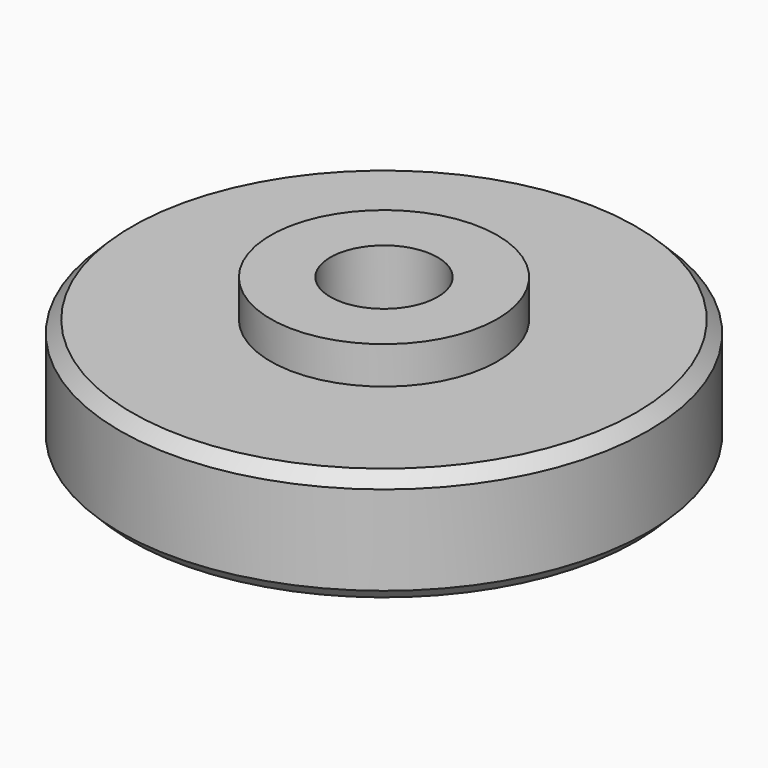
from build123d import *

# Parameters (mm, degrees)
F0_R     = 5.5626
F1_DEPTH = 2.3876
F2_R     = 2.3876
F3_DEPTH = 0.7874
F4_R     = 1.1303
F5_DEPTH = 3.176
F6_SIZE  = 0.254


with BuildPart() as f1:
    # F0 (on Top) → F1 (new body)
    with BuildSketch(Plane.XY):
        Circle(F0_R)
    extrude(amount=F1_DEPTH)

    # F2 (on face) → F3 (join)
    with BuildSketch(Plane.XY.offset(2.3876)):
        Circle(F2_R)
    extrude(amount=F3_DEPTH)

    # F4 (on face) → F5 (cut, through all)
    with BuildSketch(Plane.XY.offset(3.175)):
        Circle(F4_R)
    extrude(amount=-F5_DEPTH, mode=Mode.SUBTRACT)

    # F6
    f6_edges = [f1.edges().sort_by_distance(p)[0] for p in [
        (-5.5626, 0, 2.3876),
        (-5.5626, 0, 0),
    ]]
    chamfer(f6_edges, length=F6_SIZE)


solid = f1.part
